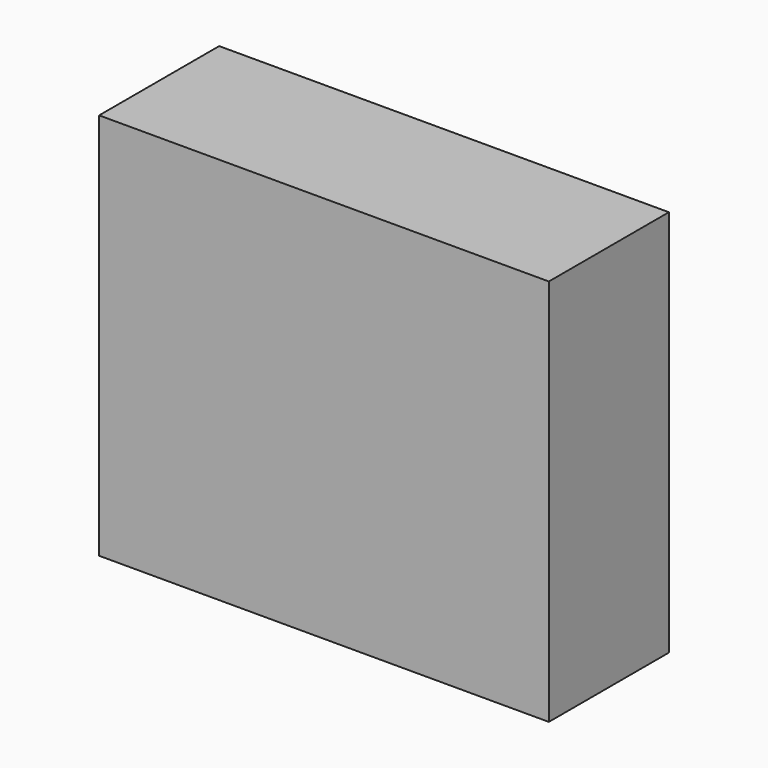
from build123d import *

# Parameters (mm, degrees)
F0_W      = 74.9409
F0_H      = 67.613818
F1_DEPTH  = 12.5
F1_FACE_W = 74.9409
F1_FACE_H = 25
F2_DEPTH  = 3


with BuildPart() as f1:
    # F0 (on Front) → F1 (new body, symmetric)
    with BuildSketch(Plane.XZ):
        Rectangle(F0_W, F0_H)
    extrude(amount=F1_DEPTH, both=True)

    # F1_face (on face) → F2 (cut)
    with BuildSketch(Plane.XY.offset(33.806909)):
        Rectangle(F1_FACE_W, F1_FACE_H)
    extrude(amount=-F2_DEPTH, mode=Mode.SUBTRACT)


solid = f1.part
